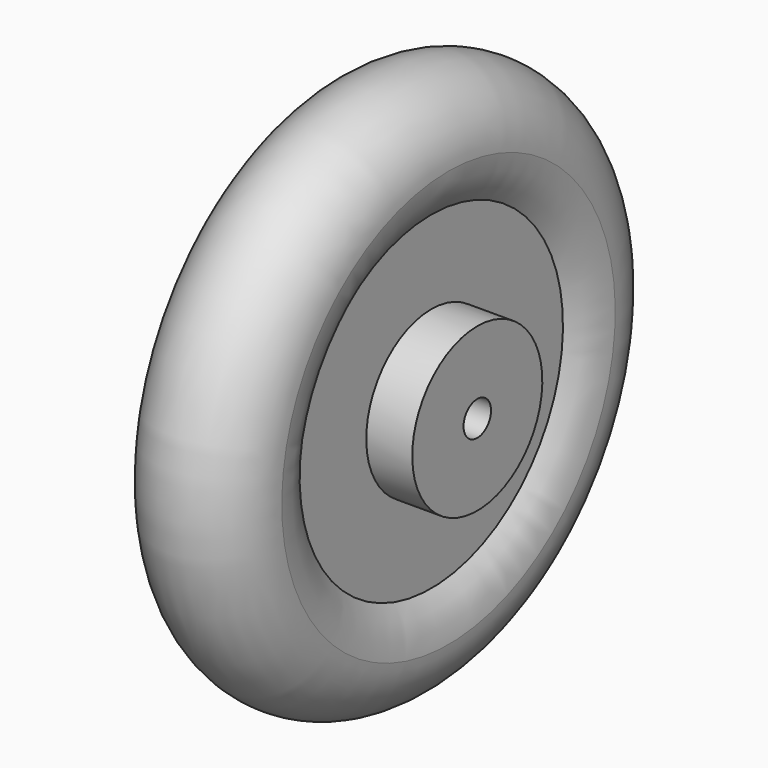
from build123d import *


with BuildPart() as f1:
    # F0 (on Front) → F1 (revolve)
    with BuildSketch(Plane.XZ):
        with BuildLine():
            Line((-21.7, 18.917404), (-21.7, 4))
            Line((-21.7, 4), (21.7, 4))
            Line((21.7, 4), (21.7, 18.917404))
            Line((21.7, 18.917404), (15, 18.917404))
            Line((15, 18.917404), (11, 18.917404))
            Line((11, 18.917404), (11, 38.301961))
            ThreePointArc((11, 38.301961), (0, 33.5), (-11, 38.301961))
            Line((-11, 38.301961), (-11, 18.917404))
            Line((-11, 18.917404), (-15, 18.917404))
            Line((-15, 18.917404), (-21.7, 18.917404))
        make_face()
        with BuildLine():
            ThreePointArc((15, 48.5), (-5.477226, 62.46424), (-11, 38.301961))
            ThreePointArc((-11, 38.301961), (0, 33.5), (11, 38.301961))
            ThreePointArc((11, 38.301961), (13.96424, 43.022774), (15, 48.5))
        make_face()
    revolve(axis=Axis((0, 0, 0), (1, 0, 0)))


solid = f1.part
